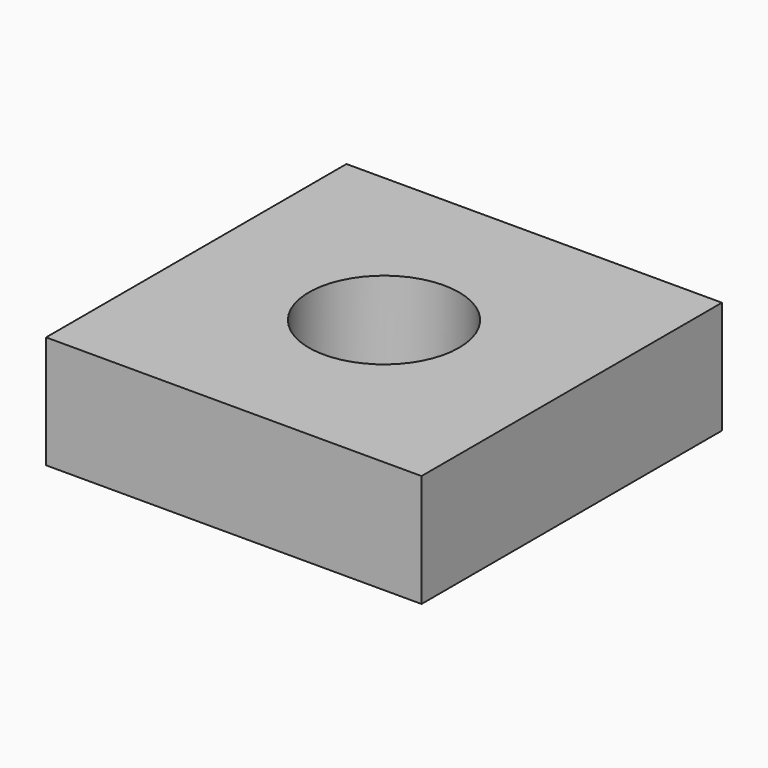
from build123d import *

# Parameters (mm, degrees)
CYLINDER_R     = 2
CYLINDER_DEPTH = 10
BOX_W          = 10
BOX_H          = 10
BOX_DEPTH      = 3


with BuildPart() as cilindro:
    # Cylinder → Cylinder (new body)
    with BuildSketch(Plane(origin=(5, 5, -3), x_dir=(1, 0, 0), z_dir=(0, 0, 1))):
        Circle(CYLINDER_R)
    extrude(amount=CYLINDER_DEPTH)


with BuildPart() as cut:
    # Box → Box (new body)
    with BuildSketch(Plane.XY):
        with Locations((5, 5)):
            Rectangle(BOX_W, BOX_H)
    extrude(amount=BOX_DEPTH)

    # Cut: cut Cilindro
    add(cilindro.part, mode=Mode.SUBTRACT)


solid = cut.part
